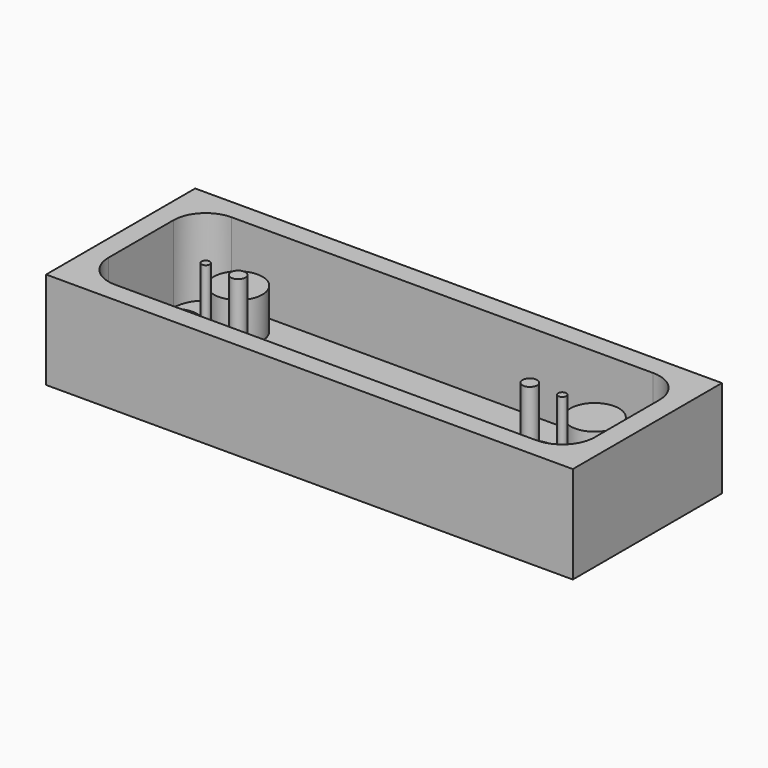
from build123d import *

# Parameters (mm, degrees)
SKETCH001_W  = 12
SKETCH001_H  = 8
PAD001_DEPTH = 0.5
BOX001_W     = 0.5
BOX001_H     = 30
BOX001_DEPTH = 2
BOX_W        = 0.5
BOX_H        = 30
BOX_DEPTH    = 2
SKETCH002_R  = 3
PAD002_DEPTH = 5
SKETCH_W     = 60
SKETCH_H     = 18
SKETCH_R     = 0.9
SKETCH_R_2   = 0.5
PAD_DEPTH    = 10
FILLET_R     = 4
BOX002_W     = 65
BOX002_H     = 23
BOX002_DEPTH = 12


with BuildPart() as axle_retainer_cutout:
    # Sketch001 → Pad001 (new body)
    with BuildSketch(Plane.XY):
        with Locations((-20, 0)):
            Rectangle(SKETCH001_W, SKETCH001_H)
        with Locations((20, 0)):
            Rectangle(SKETCH001_W, SKETCH001_H)
    extrude(amount=PAD001_DEPTH)


with BuildPart() as axle2_cutouts:
    # Box001 → Box001 (new body)
    with BuildSketch(Plane(origin=(-22.25, -15, 0), x_dir=(1, 0, 0), z_dir=(0, 0, 1))):
        with Locations((0.25, 15)):
            Rectangle(BOX001_W, BOX001_H)
    extrude(amount=BOX001_DEPTH)


with BuildPart() as axle1_cutouts:
    # Box → Box (new body)
    with BuildSketch(Plane(origin=(21.75, -15, 0), x_dir=(1, 0, 0), z_dir=(0, 0, 1))):
        with Locations((0.25, 15)):
            Rectangle(BOX_W, BOX_H)
    extrude(amount=BOX_DEPTH)


with BuildPart() as cutouts:
    # Sketch002 → Pad002 (new body)
    with BuildSketch(Plane.XY):
        with Locations((-22, 5)):
            Circle(SKETCH002_R)
        with Locations((-22, -5)):
            Circle(SKETCH002_R)
        with Locations((22, 5)):
            Circle(SKETCH002_R)
        with Locations((22, -5)):
            Circle(SKETCH002_R)
    extrude(amount=PAD002_DEPTH)

    # Fusion: union axle_retainer_cutout, Axle2 cutouts, Axle1 cutouts
    add(axle_retainer_cutout.part)
    add(axle2_cutouts.part)
    add(axle1_cutouts.part)


with BuildPart() as fillet_body:
    # Sketch → Pad (new body)
    with BuildSketch(Plane.XY):
        Rectangle(SKETCH_W, SKETCH_H)
        with Locations((-18, 0)):
            Circle(SKETCH_R, mode=Mode.SUBTRACT)
        with Locations((18, 0)):
            Circle(SKETCH_R, mode=Mode.SUBTRACT)
        with Locations((-22, 0)):
            Circle(SKETCH_R_2, mode=Mode.SUBTRACT)
        with Locations((22, 0)):
            Circle(SKETCH_R_2, mode=Mode.SUBTRACT)
    extrude(amount=PAD_DEPTH)

    # Cut: cut Cutouts
    add(cutouts.part, mode=Mode.SUBTRACT)

    # Fillet
    fillet_edges = [fillet_body.edges().sort_by_distance(p)[0] for p in [
        (-30, -9, 5),
        (30, -9, 5),
        (30, 9, 5),
        (-30, 9, 5),
    ]]
    fillet(fillet_edges, radius=FILLET_R)


with BuildPart() as cut001:
    # Box002 → Box002 (new body)
    with BuildSketch(Plane(origin=(-32.5, -11.5, -2.5), x_dir=(1, 0, 0), z_dir=(0, 0, 1))):
        with Locations((32.5, 11.5)):
            Rectangle(BOX002_W, BOX002_H)
    extrude(amount=BOX002_DEPTH)

    # Cut001: cut Fillet body
    add(fillet_body.part, mode=Mode.SUBTRACT)


solid = cut001.part
